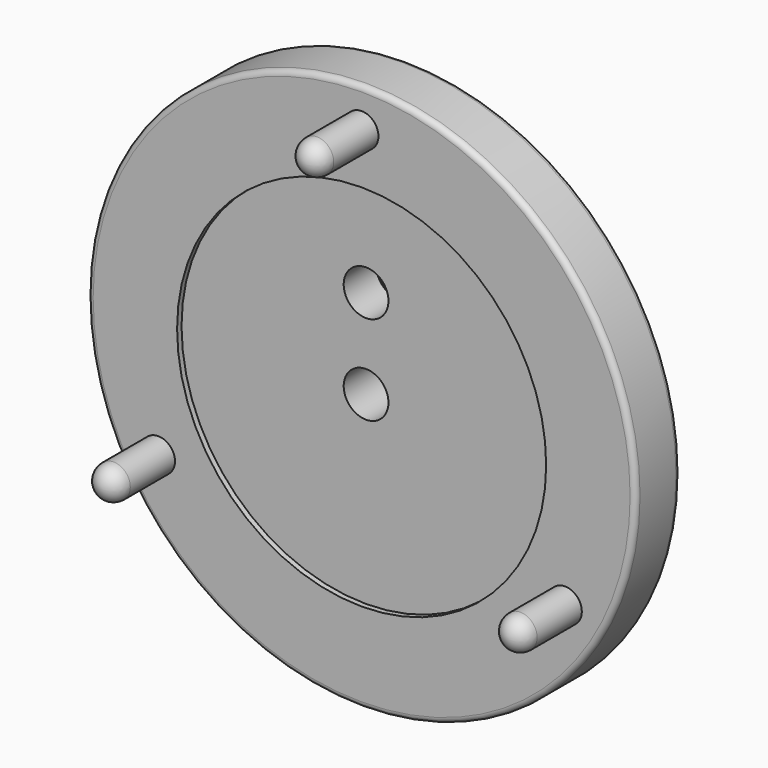
from build123d import *

# Parameters (mm, degrees)
F0_R            = 38.89375
F1_DEPTH        = 7.9375
F2_R            = 26.19375
F3_DEPTH        = 0.7874
F4_R            = 2.38125
F5_DEPTH        = 10.3124
F6_R            = 2.38125
F7_R            = 3.175
F8_DEPTH        = 7.1511
F10_D           = 6.35
F10_CSINK_D     = 8.7376
F10_CSINK_ANGLE = 82
F11_R           = 3.175
F12_DEPTH       = 28.575
F13_R           = 3.175
F14_R           = 0.7874


with BuildPart() as f1:
    # F0 (on Front) → F1 (new body)
    with BuildSketch(Plane.XZ):
        Circle(F0_R)
    extrude(amount=F1_DEPTH)

    # F2 (on face) → F3 (cut)
    with BuildSketch(Plane.XZ.offset(7.9375)):
        Circle(F2_R)
    extrude(amount=-F3_DEPTH, mode=Mode.SUBTRACT)

    # F4 (on face) → F5 (join)
    with BuildSketch(Plane.XZ.offset(7.9375)):
        with Locations((0, 33.3375)):
            Circle(F4_R)
        with Locations((-28.871122, -16.66875)):
            Circle(F4_R)
        with Locations((28.871122, -16.66875)):
            Circle(F4_R)
    extrude(amount=F5_DEPTH)

    # F6
    f6_edges = [f1.edges().sort_by_distance(p)[0] for p in [
        (-2.38125, -18.2499, 33.3375),
        (26.489872, -18.2499, -16.66875),
        (-31.252372, -18.2499, -16.66875),
    ]]
    fillet(f6_edges, radius=F6_R)

    # F7 (on face) → F8 (cut, through all)
    with BuildSketch(Plane.XZ.offset(7.1501)):
        Circle(F7_R)
        with Locations((0, 12.7)):
            Circle(F7_R)
    extrude(amount=-F8_DEPTH, mode=Mode.SUBTRACT)

    # F10 (through all)
    with Locations(Plane(origin=(0, 0, 0), x_dir=(-1, 0, 0), z_dir=(0, 1, 0))):
        with Locations((0, 12.7)):
            CounterSinkHole(F10_D / 2, F10_CSINK_D / 2, counter_sink_angle=F10_CSINK_ANGLE)

    # F11 (on face) → F12 (join)
    with BuildSketch(Plane(origin=(0, 0, 0), x_dir=(-1, 0, 0), z_dir=(0, 1, 0))):
        with Locations((0, -17.4625)):
            Circle(F11_R)
    extrude(amount=F12_DEPTH)

    # F13
    f13_edges = [f1.edges().sort_by_distance(p)[0] for p in [
        (3.175, 28.575, -17.4625),
    ]]
    fillet(f13_edges, radius=F13_R)

    # F14
    f14_edges = [f1.edges().sort_by_distance(p)[0] for p in [
        (-38.89375, -7.9375, 0),
        (-38.89375, 0, 0),
    ]]
    fillet(f14_edges, radius=F14_R)


solid = f1.part
